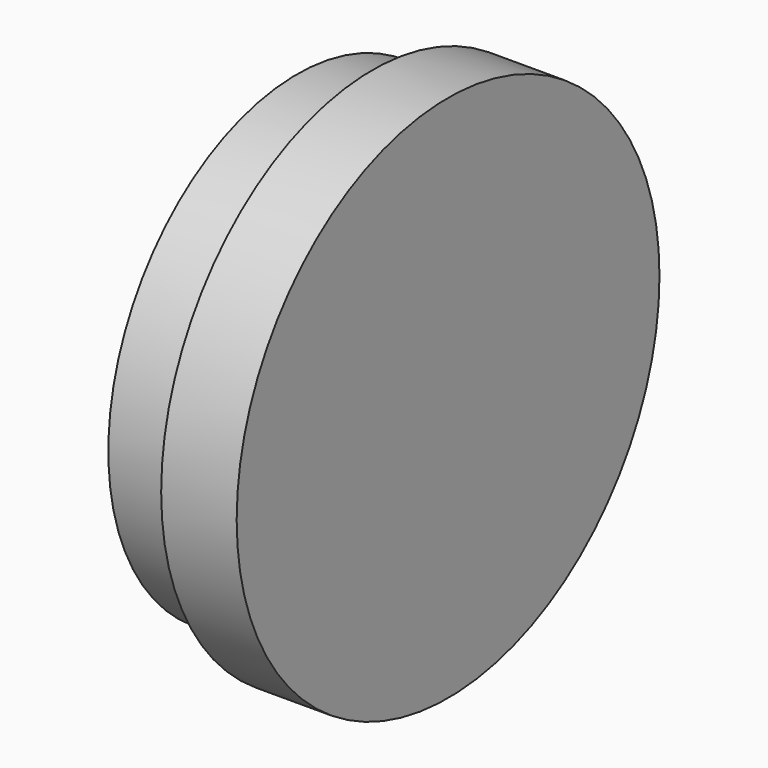
from build123d import *

# Parameters (mm, degrees)
F0_R     = 15.875
F1_DEPTH = 5.08
F2_R     = 17.78
F3_DEPTH = 5.08
F4_R     = 9.525
F5_DEPTH = 3.302


with BuildPart() as f1:
    # F0 (on Right) → F1 (new body)
    with BuildSketch(Plane.YZ):
        Circle(F0_R)
        Polygon((0, -14.664697), (-12.7, -7.332348), (-12.7, 7.332348), (0, 14.664697), (12.7, 7.332348), (12.7, -7.332348), align=None, mode=Mode.SUBTRACT)
    extrude(amount=F1_DEPTH)

    # F2 (on face) → F3 (join)
    with BuildSketch(Plane.YZ.offset(5.08)):
        Circle(F2_R)
    extrude(amount=F3_DEPTH)

    # F4 (on face) → F5 (cut)
    with BuildSketch(Plane(origin=(5.08, 0, 0), x_dir=(0, -1, 0), z_dir=(-1, 0, 0))):
        Circle(F4_R)
    extrude(amount=-F5_DEPTH, mode=Mode.SUBTRACT)


solid = f1.part
